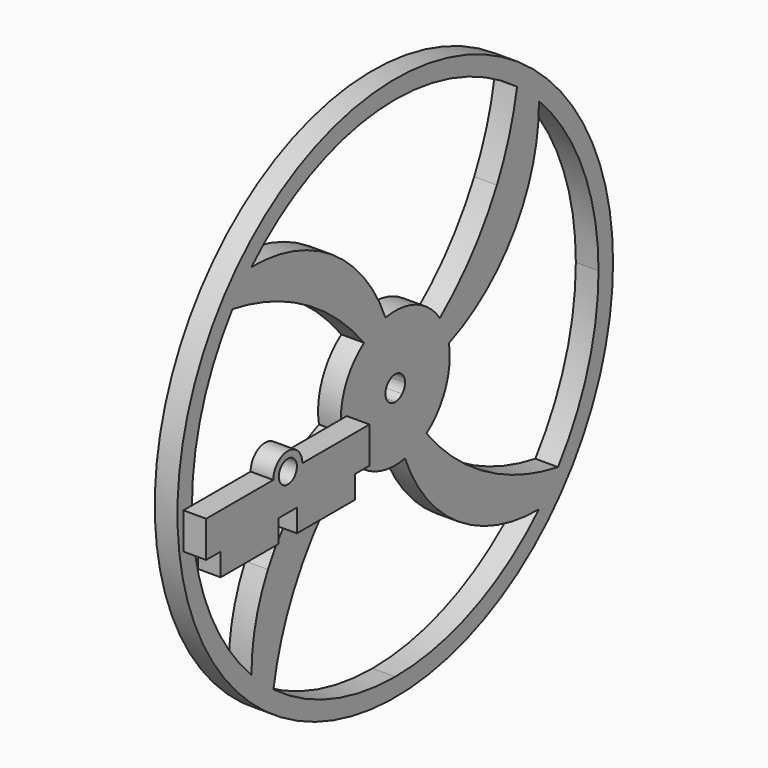
from build123d import *

# Parameters (mm, degrees)
F0_W     = 10.16
F0_H     = 3.175
F1_DEPTH = 3.175
F2_R     = 38.1
F3_DEPTH = 3.175


with BuildPart() as f1:
    # F0 (on Right) → F1 (new body)
    with BuildSketch(Plane.YZ):
        with BuildLine():
            Line((-37.0472365969, -5.08), (-34.5072365969, -5.08))
            Line((-34.5072365969, -5.08), (-24.3472365969, -5.08))
            Line((-24.3472365969, -5.08), (-21.1722365969, -5.08))
            Line((-21.1722365969, -5.08), (-11.0122365969, -5.08))
            Line((-11.0122365969, -5.08), (-8.4722365969, -5.08))
            Line((-8.4722365969, -5.08), (-8.4722365969, 0))
            Line((-8.4722365969, 0), (-20.2197365969, 0))
            ThreePointArc((-20.2197365969, 0), (-22.7597365969, -2.54), (-25.2997365969, 0))
            Line((-25.2997365969, 0), (-37.0472365969, 0))
            Line((-37.0472365969, 0), (-37.0472365969, -5.08))
        make_face()
        with Locations((-29.4272365969, -6.6675)):
            Rectangle(F0_W, F0_H)
        with Locations((-16.0922365969, -6.6675)):
            Rectangle(F0_W, F0_H)
        with BuildLine():
            Line((-24.3472365969, 0), (-25.2997365969, 0))
            ThreePointArc((-25.2997365969, 0), (-22.7597365969, -2.54), (-20.2197365969, 0))
            Line((-20.2197365969, 0), (-21.1722365969, 0))
            ThreePointArc((-21.1722365969, 0), (-22.7597365969, -1.5875), (-24.3472365969, 0))
        make_face()
        with BuildLine():
            ThreePointArc((-20.2197365969, 0), (-22.7597365969, 2.54), (-25.2997365969, 0))
            Line((-25.2997365969, 0), (-24.3472365969, 0))
            ThreePointArc((-24.3472365969, 0), (-22.7597365969, 1.5875), (-21.1722365969, 0))
            Line((-21.1722365969, 0), (-20.2197365969, 0))
        make_face()
    extrude(amount=F1_DEPTH)


with BuildPart() as f3:
    # F2 (on Right) → F3 (new body)
    with BuildSketch(Plane.YZ):
        Circle(F2_R)
        with BuildLine():
            ThreePointArc((25.144717139, 25.144717139), (32.8531561761, 13.6082228549), (35.56, 0))
            ThreePointArc((35.56, 0), (33.7412558495, -11.2268095956), (28.4710655964, -21.305211189))
            ThreePointArc((28.4710655964, -21.305211189), (26.87654165, -23.2844392016), (25.144717139, -25.144717139))
            ThreePointArc((25.144717139, -25.144717139), (13.6082228549, -32.8531561761), (0, -35.56))
            ThreePointArc((0, -35.56), (-11.2268095956, -33.7412558495), (-21.305211189, -28.4710655964))
            ThreePointArc((-21.305211189, -28.4710655964), (-23.2844392016, -26.87654165), (-25.144717139, -25.144717139))
            ThreePointArc((-25.144717139, -25.144717139), (-32.8531561761, -13.6082228549), (-35.56, 0))
            ThreePointArc((-35.56, 0), (-33.7412558495, 11.2268095956), (-28.4710655964, 21.305211189))
            ThreePointArc((-28.4710655964, 21.305211189), (-26.87654165, 23.2844392016), (-25.144717139, 25.144717139))
            ThreePointArc((-25.144717139, 25.144717139), (-13.6082228549, 32.8531561761), (0, 35.56))
            ThreePointArc((0, 35.56), (11.2268095956, 33.7412558495), (21.305211189, 28.4710655964))
            ThreePointArc((21.305211189, 28.4710655964), (23.2844392016, 26.87654165), (25.144717139, 25.144717139))
        make_face(mode=Mode.SUBTRACT)
        with BuildLine():
            ThreePointArc((7.8013674913, 5.4648229858), (8.7891665031, 3.6709913076), (9.3707069317, 1.7074766763))
            ThreePointArc((9.3707069317, 1.7074766763), (16.8578110254, 6.3433195038), (22.2701280605, 13.2898719395))
            Line((22.2701280605, 13.2898719395), (17.78, 17.78))
            ThreePointArc((17.78, 17.78), (13.4466886732, 11.0908696329), (7.8013674913, 5.4648229858))
        make_face()
        with BuildLine():
            ThreePointArc((17.78, -17.78), (11.0908696329, -13.4466886732), (5.4648229858, -7.8013674913))
            ThreePointArc((5.4648229858, -7.8013674913), (3.6709913076, -8.7891665031), (1.7074766763, -9.3707069317))
            ThreePointArc((1.7074766763, -9.3707069317), (6.3433195038, -16.8578110254), (13.2898719395, -22.2701280605))
            Line((13.2898719395, -22.2701280605), (17.78, -17.78))
        make_face()
        with BuildLine():
            ThreePointArc((-17.78, -17.78), (-13.4466886732, -11.0908696329), (-7.8013674913, -5.4648229858))
            ThreePointArc((-7.8013674913, -5.4648229858), (-8.7891665031, -3.6709913076), (-9.3707069317, -1.7074766763))
            ThreePointArc((-9.3707069317, -1.7074766763), (-16.8578110254, -6.3433195038), (-22.2701280605, -13.2898719395))
            Line((-22.2701280605, -13.2898719395), (-17.78, -17.78))
        make_face()
        with BuildLine():
            ThreePointArc((-5.4648229858, 7.8013674913), (-3.6709913076, 8.7891665031), (-1.7074766763, 9.3707069317))
            ThreePointArc((-1.7074766763, 9.3707069317), (-6.3433195038, 16.8578110254), (-13.2898719395, 22.2701280605))
            Line((-13.2898719395, 22.2701280605), (-17.78, 17.78))
            ThreePointArc((-17.78, 17.78), (-11.0908696329, 13.4466886732), (-5.4648229858, 7.8013674913))
        make_face()
        with BuildLine():
            ThreePointArc((-9.3707069317, -1.7074766763), (-5.6100693847, -0.5512258396), (-1.7145, 0))
            ThreePointArc((-1.7145, 0), (-1.5839914585, 0.6561107448), (-1.2123345763, 1.2123345763))
            ThreePointArc((-1.2123345763, 1.2123345763), (-3.166406309, 4.6179692284), (-5.4648229858, 7.8013674913))
            ThreePointArc((-5.4648229858, 7.8013674913), (-8.8106620826, 3.619096388), (-9.3707069317, -1.7074766763))
        make_face()
        with BuildLine():
            ThreePointArc((0, 1.7145), (0.6561107448, 1.5839914585), (1.2123345763, 1.2123345763))
            ThreePointArc((1.2123345763, 1.2123345763), (4.6179692284, 3.166406309), (7.8013674913, 5.4648229858))
            ThreePointArc((7.8013674913, 5.4648229858), (3.619096388, 8.8106620826), (-1.7074766763, 9.3707069317))
            ThreePointArc((-1.7074766763, 9.3707069317), (-0.5512258396, 5.6100693847), (0, 1.7145))
        make_face()
        with BuildLine():
            ThreePointArc((9.3707069317, 1.7074766763), (5.6100693847, 0.5512258396), (1.7145, 0))
            ThreePointArc((1.7145, 0), (1.5839914585, -0.6561107448), (1.2123345763, -1.2123345763))
            ThreePointArc((1.2123345763, -1.2123345763), (3.166406309, -4.6179692284), (5.4648229858, -7.8013674913))
            ThreePointArc((5.4648229858, -7.8013674913), (8.4492030376, -4.3973393126), (9.525, 0))
            ThreePointArc((9.525, 0), (9.4863483102, 0.8572168557), (9.3707069317, 1.7074766763))
        make_face()
        with BuildLine():
            ThreePointArc((1.7074766763, -9.3707069317), (0.5512258396, -5.6100693847), (0, -1.7145))
            ThreePointArc((0, -1.7145), (-0.6561107448, -1.5839914585), (-1.2123345763, -1.2123345763))
            ThreePointArc((-1.2123345763, -1.2123345763), (-4.6179692284, -3.166406309), (-7.8013674913, -5.4648229858))
            ThreePointArc((-7.8013674913, -5.4648229858), (-3.619096388, -8.8106620826), (1.7074766763, -9.3707069317))
        make_face()
        with BuildLine():
            Line((17.78, 17.78), (22.2701280605, 13.2898719395))
            ThreePointArc((22.2701280605, 13.2898719395), (24.4424397534, 19.0390659545), (25.144717139, 25.144717139))
            Line((25.144717139, 25.144717139), (17.78, 17.78))
        make_face()
        with BuildLine():
            Line((25.144717139, -25.144717139), (17.78, -17.78))
            Line((17.78, -17.78), (13.2898719395, -22.2701280605))
            ThreePointArc((13.2898719395, -22.2701280605), (19.0390659545, -24.4424397534), (25.144717139, -25.144717139))
        make_face()
        with BuildLine():
            Line((-25.144717139, -25.144717139), (-17.78, -17.78))
            Line((-17.78, -17.78), (-22.2701280605, -13.2898719395))
            ThreePointArc((-22.2701280605, -13.2898719395), (-24.4424397534, -19.0390659545), (-25.144717139, -25.144717139))
        make_face()
        with BuildLine():
            Line((-17.78, 17.78), (-13.2898719395, 22.2701280605))
            ThreePointArc((-13.2898719395, 22.2701280605), (-19.0390659545, 24.4424397534), (-25.144717139, 25.144717139))
            Line((-25.144717139, 25.144717139), (-17.78, 17.78))
        make_face()
        with BuildLine():
            ThreePointArc((21.305211189, 28.4710655964), (19.9447933347, 22.9929176992), (17.78, 17.78))
            Line((17.78, 17.78), (25.144717139, 25.144717139))
            Line((25.144717139, 25.144717139), (21.305211189, 28.4710655964))
        make_face()
        with BuildLine():
            ThreePointArc((28.4710655964, -21.305211189), (22.9929176992, -19.9447933347), (17.78, -17.78))
            Line((17.78, -17.78), (25.144717139, -25.144717139))
            Line((25.144717139, -25.144717139), (28.4710655964, -21.305211189))
        make_face()
        with BuildLine():
            ThreePointArc((-21.305211189, -28.4710655964), (-19.9447933347, -22.9929176992), (-17.78, -17.78))
            Line((-17.78, -17.78), (-25.144717139, -25.144717139))
            Line((-25.144717139, -25.144717139), (-21.305211189, -28.4710655964))
        make_face()
        with BuildLine():
            ThreePointArc((-28.4710655964, 21.305211189), (-22.9929176992, 19.9447933347), (-17.78, 17.78))
            Line((-17.78, 17.78), (-25.144717139, 25.144717139))
            Line((-25.144717139, 25.144717139), (-28.4710655964, 21.305211189))
        make_face()
        with BuildLine():
            ThreePointArc((-1.2123345763, 1.2123345763), (-0.6561107448, 1.5839914585), (0, 1.7145))
            ThreePointArc((0, 1.7145), (-0.5512258396, 5.6100693847), (-1.7074766763, 9.3707069317))
            ThreePointArc((-1.7074766763, 9.3707069317), (-3.6709913076, 8.7891665031), (-5.4648229858, 7.8013674913))
            ThreePointArc((-5.4648229858, 7.8013674913), (-3.166406309, 4.6179692284), (-1.2123345763, 1.2123345763))
        make_face()
        with BuildLine():
            ThreePointArc((1.2123345763, 1.2123345763), (1.5839914585, 0.6561107448), (1.7145, 0))
            ThreePointArc((1.7145, 0), (5.6100693847, 0.5512258396), (9.3707069317, 1.7074766763))
            ThreePointArc((9.3707069317, 1.7074766763), (8.7891665031, 3.6709913076), (7.8013674913, 5.4648229858))
            ThreePointArc((7.8013674913, 5.4648229858), (4.6179692284, 3.166406309), (1.2123345763, 1.2123345763))
        make_face()
        with BuildLine():
            ThreePointArc((5.4648229858, -7.8013674913), (3.166406309, -4.6179692284), (1.2123345763, -1.2123345763))
            ThreePointArc((1.2123345763, -1.2123345763), (0.6561107448, -1.5839914585), (0, -1.7145))
            ThreePointArc((0, -1.7145), (0.5512258396, -5.6100693847), (1.7074766763, -9.3707069317))
            ThreePointArc((1.7074766763, -9.3707069317), (3.6709913076, -8.7891665031), (5.4648229858, -7.8013674913))
        make_face()
        with BuildLine():
            ThreePointArc((-7.8013674913, -5.4648229858), (-4.6179692284, -3.166406309), (-1.2123345763, -1.2123345763))
            ThreePointArc((-1.2123345763, -1.2123345763), (-1.5839914585, -0.6561107448), (-1.7145, 0))
            ThreePointArc((-1.7145, 0), (-5.6100693847, -0.5512258396), (-9.3707069317, -1.7074766763))
            ThreePointArc((-9.3707069317, -1.7074766763), (-8.7891665031, -3.6709913076), (-7.8013674913, -5.4648229858))
        make_face()
        with BuildLine():
            Line((-28.4710655964, 21.305211189), (-25.144717139, 25.144717139))
            ThreePointArc((-25.144717139, 25.144717139), (-26.87654165, 23.2844392016), (-28.4710655964, 21.305211189))
        make_face()
        with BuildLine():
            Line((21.305211189, 28.4710655964), (25.144717139, 25.144717139))
            ThreePointArc((25.144717139, 25.144717139), (23.2844392016, 26.87654165), (21.305211189, 28.4710655964))
        make_face()
        with BuildLine():
            Line((28.4710655964, -21.305211189), (25.144717139, -25.144717139))
            ThreePointArc((25.144717139, -25.144717139), (26.87654165, -23.2844392016), (28.4710655964, -21.305211189))
        make_face()
        with BuildLine():
            Line((-21.305211189, -28.4710655964), (-25.144717139, -25.144717139))
            ThreePointArc((-25.144717139, -25.144717139), (-23.2844392016, -26.87654165), (-21.305211189, -28.4710655964))
        make_face()
    extrude(amount=-F3_DEPTH)


solid = Compound([f1.part, f3.part])
